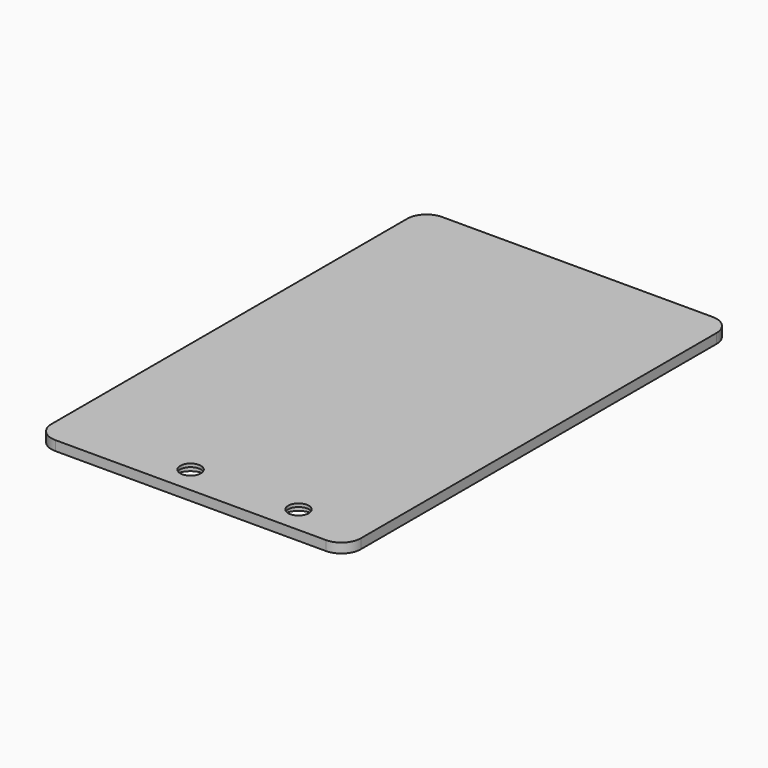
from build123d import *

# Parameters (mm, degrees)
SKETCH_W        = 48
SKETCH_H        = 75
PAD_DEPTH       = 1.5
FILLET006_R     = 3
FILLET007_R     = 3
FILLET008_R     = 3
SKETCH010_R     = 1.6
POCKET009_DEPTH = 1.501
SKETCH015_R     = 2.455473
SKETCH015_R_2   = 2.5
POCKET011_DEPTH = 1


with BuildPart() as part:
    # Sketch → Pad (new body)
    with BuildSketch(Plane.XY):
        with Locations((-5, 0)):
            Rectangle(SKETCH_W, SKETCH_H)
    extrude(amount=PAD_DEPTH)

    # Fillet006
    fillet006_edges = [part.edges().sort_by_distance(p)[0] for p in [
        (-29, -37.5, 0.75),
    ]]
    fillet(fillet006_edges, radius=FILLET006_R)

    # Fillet007
    fillet007_edges = [part.edges().sort_by_distance(p)[0] for p in [
        (19, -37.5, 0.75),
        (19, 37.5, 0.75),
    ]]
    fillet(fillet007_edges, radius=FILLET007_R)

    # Fillet008
    fillet008_edges = [part.edges().sort_by_distance(p)[0] for p in [
        (-29, 37.5, 0.75),
    ]]
    fillet(fillet008_edges, radius=FILLET008_R)

    # Sketch010 → Pocket009 (cut, through all)
    with BuildSketch(Plane(origin=(0, 0, 0), x_dir=(1, 0, 0), z_dir=(0, 0, -1))):
        with Locations((-8.375, 33.3)):
            Circle(SKETCH010_R)
        with Locations((8.375, 33.3)):
            Circle(SKETCH010_R)
    extrude(amount=-POCKET009_DEPTH, mode=Mode.SUBTRACT)

    # Sketch015 → Pocket011 (cut)
    with BuildSketch(Plane(origin=(0, 0, 0), x_dir=(1, 0, 0), z_dir=(0, 0, -1))):
        with Locations((-8.375, 33.3)):
            Circle(SKETCH015_R)
        with Locations((8.375, 33.3)):
            Circle(SKETCH015_R_2)
    extrude(amount=-POCKET011_DEPTH, mode=Mode.SUBTRACT)


solid = part.part
